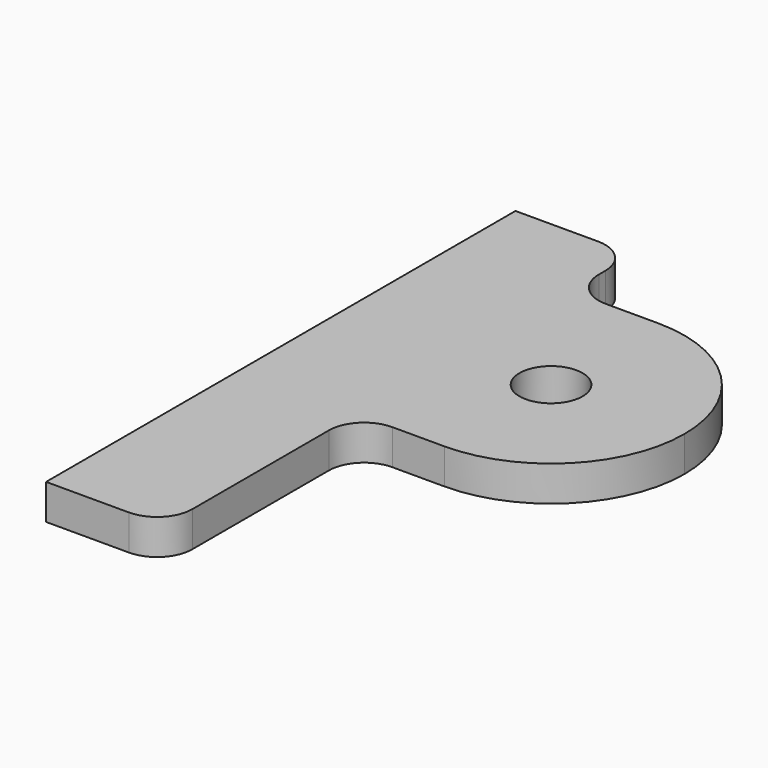
from build123d import *

# Parameters (mm, degrees)
F0_R     = 5.674275
F1_DEPTH = 6.35


with BuildPart() as f1:
    # F0 (on Top) → F1 (new body)
    with BuildSketch(Plane.XY):
        with BuildLine():
            ThreePointArc((29.390265, 10.770578), (22.359371, 27.744657), (5.385291, 34.775551))
            ThreePointArc((5.385291, 34.775551), (-18.619682, 10.770578), (5.385291, -13.234396))
            ThreePointArc((5.385291, -13.234396), (22.359371, -6.203502), (29.390265, 10.770578))
        make_face()
        with Locations((5.385291, 10.770578)):
            Circle(F0_R, mode=Mode.SUBTRACT)
        with BuildLine():
            Line((-16.658982, 48.929192), (-31.542405, 48.929192))
            Line((-31.542405, 48.929192), (-31.542405, -56.622464))
            Line((-31.542405, -56.622464), (-16.658982, -56.622464))
            ThreePointArc((-16.658982, -56.622464), (-12.168854, -54.762592), (-10.308982, -50.272464))
            Line((-10.308982, -50.272464), (-10.308982, -19.584396))
            ThreePointArc((-10.308982, -19.584396), (-8.44911, -15.094267), (-3.958982, -13.234396))
            Line((-3.958982, -13.234396), (5.385291, -13.234396))
            ThreePointArc((5.385291, -13.234396), (-18.619682, 10.770578), (5.385291, 34.775551))
            Line((5.385291, 34.775551), (-3.958982, 34.775551))
            ThreePointArc((-3.958982, 34.775551), (-8.44911, 36.635423), (-10.308982, 41.125551))
            Line((-10.308982, 41.125551), (-10.308982, 42.579192))
            ThreePointArc((-10.308982, 42.579192), (-12.168854, 47.06932), (-16.658982, 48.929192))
        make_face()
    extrude(amount=F1_DEPTH)


solid = f1.part
